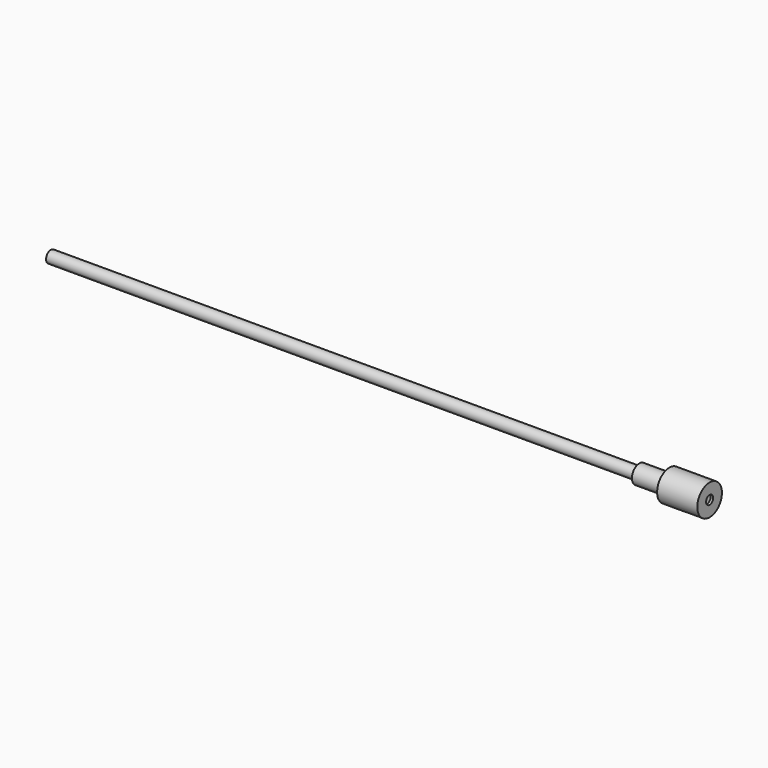
from build123d import *

# Parameters (mm, degrees)
F0_R          = 4.25
F0_R_2        = 3.15
F1_DEPTH      = 442
F0_R_3        = 6.65
F2_DEPTH      = 21.5
F0_R_4        = 11
F3_DEPTH      = 28.7
F4_W          = 10.5
F4_H          = 14.3
F5_DEPTH      = 11.001
F5_DEPTH_BACK = 3.4


with BuildPart() as f1:
    # F0 (on Right) → F1 (new body)
    with BuildSketch(Plane.YZ):
        Circle(F0_R)
        Circle(F0_R_2, mode=Mode.SUBTRACT)
    extrude(amount=-F1_DEPTH)

    # F0 (on Right) → F2 (join)
    with BuildSketch(Plane.YZ):
        Circle(F0_R_3)
        Circle(F0_R, mode=Mode.SUBTRACT)
    extrude(amount=-F2_DEPTH)

    # F0 (on Right) → F3 (join)
    with BuildSketch(Plane.YZ):
        Circle(F0_R_4)
        Circle(F0_R_3, mode=Mode.SUBTRACT)
        Circle(F0_R_3)
        Circle(F0_R, mode=Mode.SUBTRACT)
        Circle(F0_R)
        Circle(F0_R_2, mode=Mode.SUBTRACT)
    extrude(amount=F3_DEPTH)

    # F4 (on Top) → F5 (cut, two sides)
    with BuildSketch(Plane.XY) as f5_sk:
        with Locations((21.65, 0)):
            Rectangle(F4_W, F4_H)
    extrude(amount=-F5_DEPTH, mode=Mode.SUBTRACT)
    extrude(f5_sk.sketch, amount=F5_DEPTH_BACK, mode=Mode.SUBTRACT)


solid = f1.part
